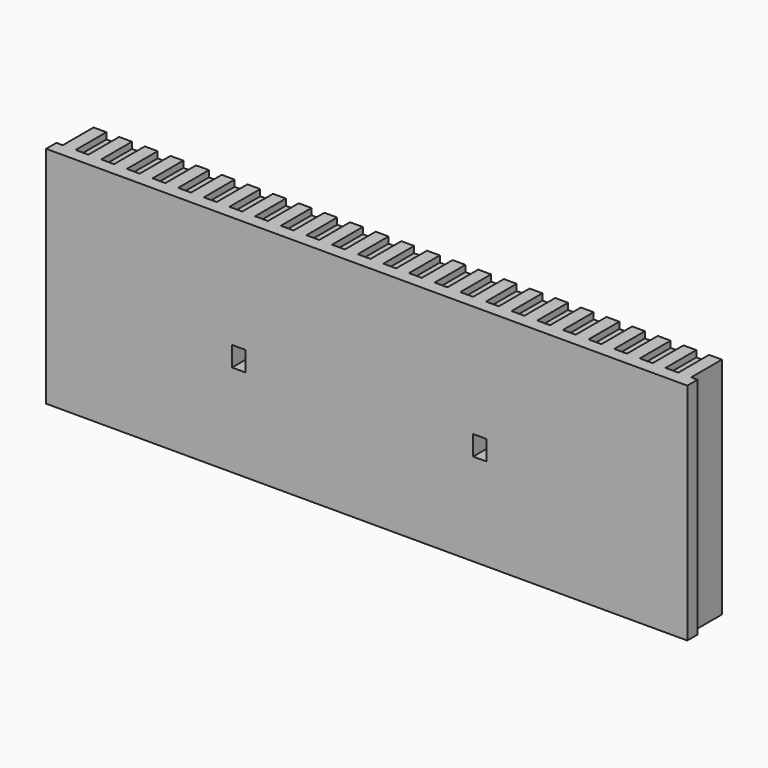
from build123d import *

# Parameters (mm, degrees)
F0_W      = 100
F0_H      = 35
F1_DEPTH  = 4
F2_T      = -3
F3_W      = 1
F3_H      = 35
F4_DEPTH  = 6
F5_W      = 2
F5_H      = 1
F6_DEPTH  = 6
F7_W      = 2.1
F7_H      = 3.1
F8_DEPTH  = 3
F9_W      = 6
F9_H      = 6
F9_W_2    = 2.1
F9_H_2    = 3.1
F10_DEPTH = 2


with BuildPart() as f1:
    # F0 (on Front) → F1 (new body, symmetric)
    with BuildSketch(Plane.XZ):
        with Locations((50, 17.5)):
            Rectangle(F0_W, F0_H)
    extrude(amount=F1_DEPTH, both=True)

    # F2
    f2_openings = [f1.faces().sort_by_distance(p)[0] for p in [
        (50, 4, 17.5),
    ]]
    offset(amount=F2_T, openings=f2_openings)

    # F3 (on face) → F4 (cut)
    with BuildSketch(Plane(origin=(0, 4, 0), x_dir=(-1, 0, 0), z_dir=(0, 1, 0))):
        with Locations((-99.5, 17.5)):
            Rectangle(F3_W, F3_H)
        with Locations((-0.5, 17.5)):
            Rectangle(F3_W, F3_H)
    extrude(amount=-F4_DEPTH, mode=Mode.SUBTRACT)

    # F5 (on face) → F6 (cut)
    with BuildSketch(Plane(origin=(0, 4, 0), x_dir=(-1, 0, 0), z_dir=(0, 1, 0))):
        with Locations((-96, 34.5)):
            Rectangle(F5_W, F5_H)
        with Locations((-96, 0.5)):
            Rectangle(F5_W, F5_H)
        with Locations((-92, 34.5)):
            Rectangle(F5_W, F5_H)
        with Locations((-92, 0.5)):
            Rectangle(F5_W, F5_H)
        with Locations((-88, 34.5)):
            Rectangle(F5_W, F5_H)
        with Locations((-88, 0.5)):
            Rectangle(F5_W, F5_H)
        with Locations((-84, 34.5)):
            Rectangle(F5_W, F5_H)
        with Locations((-84, 0.5)):
            Rectangle(F5_W, F5_H)
        with Locations((-80, 34.5)):
            Rectangle(F5_W, F5_H)
        with Locations((-80, 0.5)):
            Rectangle(F5_W, F5_H)
        with Locations((-76, 34.5)):
            Rectangle(F5_W, F5_H)
        with Locations((-76, 0.5)):
            Rectangle(F5_W, F5_H)
        with Locations((-72, 34.5)):
            Rectangle(F5_W, F5_H)
        with Locations((-72, 0.5)):
            Rectangle(F5_W, F5_H)
        with Locations((-68, 34.5)):
            Rectangle(F5_W, F5_H)
        with Locations((-68, 0.5)):
            Rectangle(F5_W, F5_H)
        with Locations((-64, 34.5)):
            Rectangle(F5_W, F5_H)
        with Locations((-64, 0.5)):
            Rectangle(F5_W, F5_H)
        with Locations((-60, 34.5)):
            Rectangle(F5_W, F5_H)
        with Locations((-60, 0.5)):
            Rectangle(F5_W, F5_H)
        with Locations((-56, 34.5)):
            Rectangle(F5_W, F5_H)
        with Locations((-56, 0.5)):
            Rectangle(F5_W, F5_H)
        with Locations((-52, 34.5)):
            Rectangle(F5_W, F5_H)
        with Locations((-52, 0.5)):
            Rectangle(F5_W, F5_H)
        with Locations((-48, 34.5)):
            Rectangle(F5_W, F5_H)
        with Locations((-48, 0.5)):
            Rectangle(F5_W, F5_H)
        with Locations((-44, 34.5)):
            Rectangle(F5_W, F5_H)
        with Locations((-44, 0.5)):
            Rectangle(F5_W, F5_H)
        with Locations((-40, 34.5)):
            Rectangle(F5_W, F5_H)
        with Locations((-40, 0.5)):
            Rectangle(F5_W, F5_H)
        with Locations((-36, 34.5)):
            Rectangle(F5_W, F5_H)
        with Locations((-36, 0.5)):
            Rectangle(F5_W, F5_H)
        with Locations((-32, 34.5)):
            Rectangle(F5_W, F5_H)
        with Locations((-32, 0.5)):
            Rectangle(F5_W, F5_H)
        with Locations((-28, 34.5)):
            Rectangle(F5_W, F5_H)
        with Locations((-28, 0.5)):
            Rectangle(F5_W, F5_H)
        with Locations((-24, 34.5)):
            Rectangle(F5_W, F5_H)
        with Locations((-24, 0.5)):
            Rectangle(F5_W, F5_H)
        with Locations((-20, 34.5)):
            Rectangle(F5_W, F5_H)
        with Locations((-20, 0.5)):
            Rectangle(F5_W, F5_H)
        with Locations((-16, 34.5)):
            Rectangle(F5_W, F5_H)
        with Locations((-16, 0.5)):
            Rectangle(F5_W, F5_H)
        with Locations((-12, 34.5)):
            Rectangle(F5_W, F5_H)
        with Locations((-12, 0.5)):
            Rectangle(F5_W, F5_H)
        with Locations((-8, 34.5)):
            Rectangle(F5_W, F5_H)
        with Locations((-8, 0.5)):
            Rectangle(F5_W, F5_H)
        with Locations((-4, 34.5)):
            Rectangle(F5_W, F5_H)
        with Locations((-4, 0.5)):
            Rectangle(F5_W, F5_H)
    extrude(amount=-F6_DEPTH, mode=Mode.SUBTRACT)

    # F7 (on face) → F8 (cut)
    with BuildSketch(Plane.XZ.offset(4)):
        with Locations((67.65, 15.95)):
            Rectangle(F7_W, F7_H)
        with Locations((30.05, 15.95)):
            Rectangle(F7_W, F7_H)
    extrude(amount=-F8_DEPTH, mode=Mode.SUBTRACT)

    # F9 (on face) → F10 (join)
    with BuildSketch(Plane(origin=(0, -1, 0), x_dir=(-1, 0, 0), z_dir=(0, 1, 0))):
        with Locations((-68.1, 15.4)):
            Rectangle(F9_W, F9_H)
        with Locations((-67.65, 15.95)):
            Rectangle(F9_W_2, F9_H_2, mode=Mode.SUBTRACT)
        with Locations((-30.5, 15.4)):
            Rectangle(F9_W, F9_H)
        with Locations((-30.05, 15.95)):
            Rectangle(F9_W_2, F9_H_2, mode=Mode.SUBTRACT)
    extrude(amount=F10_DEPTH)


solid = f1.part
